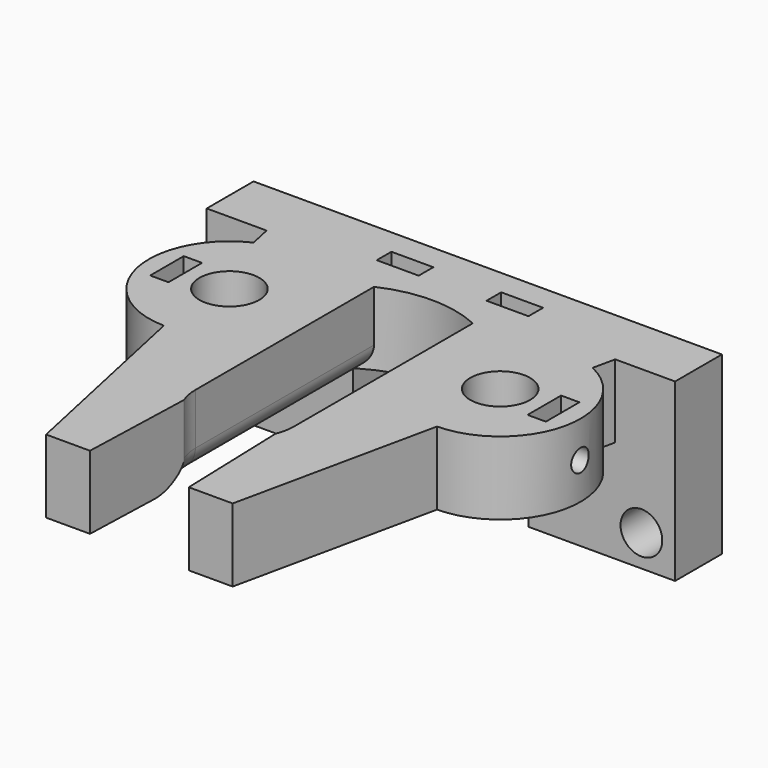
from build123d import *

# Parameters (mm, degrees)
PAD006_DEPTH            = 10
FILLET001_R             = 3
PAD013_DEPTH            = 10
SKETCH022_R             = 4.09
SKETCH022_W             = 2.5
SKETCH022_H             = 5.73
SKETCH022_W_2           = 5.73
SKETCH022_H_2           = 2.5
POCKET013_DEPTH         = 10.001
POCKET013_DEPTH_BACK    = 0.001
SKETCH023_R             = 1.5
POCKET014_DEPTH         = 7.5
SKETCH024_R             = 1.5
PAD019_DEPTH            = 8
SKETCH043_R             = 2.85
POCKET026_DEPTH         = 57.001
SKETCH047_R             = 1.5
POCKET029_DEPTH         = 5
SKETCH048_R             = 1.5
POCKET030_DEPTH         = 5
BODY005_ROLL_ANGLE      = -90
BODY005_PLACEMENT_ANGLE = 180


with BuildPart() as part:
    # Sketch006 → Pad006 (new body)
    with BuildSketch(Plane.XZ):
        with BuildLine():
            Line((18.25, 57), (12.25, 57))
            Line((12.25, 57), (0, 0))
            Line((0, 0), (0, -2.5))
            Line((0, -2.5), (50, -2.5))
            Line((50, -2.5), (50, 0))
            Line((50, 0), (37.75, 57))
            Line((37.75, 57), (31.75, 57))
            Line((31.25, 41.54951), (31.75, 57))
            ThreePointArc((31.75, 39), (31.623821, 40.299038), (31.25, 41.54951))
            Line((31.749951, 8.5), (31.75, 39))
            ThreePointArc((18.249951, 8.5), (24.999951, 7), (31.749951, 8.5))
            Line((18.25, 39), (18.249951, 8.5))
            ThreePointArc((18.75, 41.54951), (18.376179, 40.299038), (18.25, 39))
            Line((18.75, 41.54951), (18.25, 57))
        make_face()
    extrude(amount=-PAD006_DEPTH)

    # Fillet001
    fillet001_edges = [part.edges().sort_by_distance(p)[0] for p in [
        (31.749976, 10, 23.75),
        (18.249976, 10, 23.75),
        (18.376179, 10, 40.299038),
        (31.623821, 10, 40.299038),
    ]]
    fillet(fillet001_edges, radius=FILLET001_R)

    # Sketch021 → Pad013 (join)
    with BuildSketch(Plane.XZ):
        with BuildLine():
            ThreePointArc((15.25, 25.166146), (-4.5, 18.5), (15.25, 11.833854))
            Line((15.25, 25.166146), (15.25, 11.833854))
        make_face()
        with BuildLine():
            ThreePointArc((34.75, 11.833854), (54.5, 18.5), (34.75, 25.166146))
            Line((34.75, 25.166146), (34.75, 11.833854))
        make_face()
    extrude(amount=-PAD013_DEPTH)

    # Sketch022 → Pocket013 (cut, two sides)
    with BuildSketch(Plane.XZ) as pocket013_sk:
        with Locations((43.5, 18.5)):
            Circle(SKETCH022_R)
        with Locations((6.5, 18.5)):
            Circle(SKETCH022_R)
        with Locations((-0.78181, 18.5)):
            Rectangle(SKETCH022_W, SKETCH022_H)
        with Locations((50.78181, 18.5)):
            Rectangle(SKETCH022_W, SKETCH022_H)
        with Locations((32.5, 2.25)):
            Rectangle(SKETCH022_W_2, SKETCH022_H_2)
        with Locations((17.5, 2.25)):
            Rectangle(SKETCH022_W_2, SKETCH022_H_2)
    extrude(amount=-POCKET013_DEPTH, mode=Mode.SUBTRACT)
    extrude(pocket013_sk.sketch, amount=POCKET013_DEPTH_BACK, mode=Mode.SUBTRACT)

    # Sketch023 → Pocket014 (cut, symmetric)
    with BuildSketch(Plane.XY):
        with Locations((17.5, 5)):
            Circle(SKETCH023_R)
        with Locations((32.5, 5)):
            Circle(SKETCH023_R)
    extrude(amount=POCKET014_DEPTH, both=True, mode=Mode.SUBTRACT)

    # Sketch024 → Pad019 (join)
    with BuildSketch(Plane.XY.offset(-2.5)):
        Polygon((57, 0), (57, 24), (37, 24), (37, 0), (50, 0), align=None)
        with Locations((52.4, 19.7)):
            Circle(SKETCH024_R, mode=Mode.SUBTRACT)
        Polygon((-7, 24), (-7, 0), (0, 0), (13, 0), (13, 24), align=None)
        with Locations((-2.4, 19.7)):
            Circle(SKETCH024_R, mode=Mode.SUBTRACT)
    extrude(amount=PAD019_DEPTH)

    # Sketch043 → Pocket026 (cut, through all)
    with BuildSketch(Plane.XY):
        with Locations((-2.4, 19.7)):
            Circle(SKETCH043_R)
        with Locations((52.4, 19.7)):
            Circle(SKETCH043_R)
    extrude(amount=POCKET026_DEPTH, mode=Mode.SUBTRACT)

    # Sketch047 (on DatumPlane) → Pocket029 (cut, symmetric)
    with BuildSketch(Plane(origin=(52.03181, 0, 0), x_dir=(0, 0, -1), z_dir=(-1, 0, 0))):
        with Locations((-18.5, -5)):
            Circle(SKETCH047_R)
    extrude(amount=POCKET029_DEPTH, both=True, mode=Mode.SUBTRACT)

    # Sketch048 (on DatumPlane) → Pocket030 (cut, symmetric)
    with BuildSketch(Plane(origin=(-2.03181, 0, 0), x_dir=(0, 0, 1), z_dir=(1, 0, 0))):
        with Locations((18.5, -5)):
            Circle(SKETCH048_R)
    extrude(amount=POCKET030_DEPTH, both=True, mode=Mode.SUBTRACT)


with BuildPart() as part_1:
    # Body005 roll: moved
    add(part.part.rotate(Axis((0, 0, 0), (1, 0, 0)), BODY005_ROLL_ANGLE))


with BuildPart() as part_2:
    # Body005 placement: moved
    add(part_1.part.moved(Location((25, 19.5, 0))).rotate(Axis((25, 19.5, 0), (0, 0, 1)), BODY005_PLACEMENT_ANGLE))


solid = part_2.part
